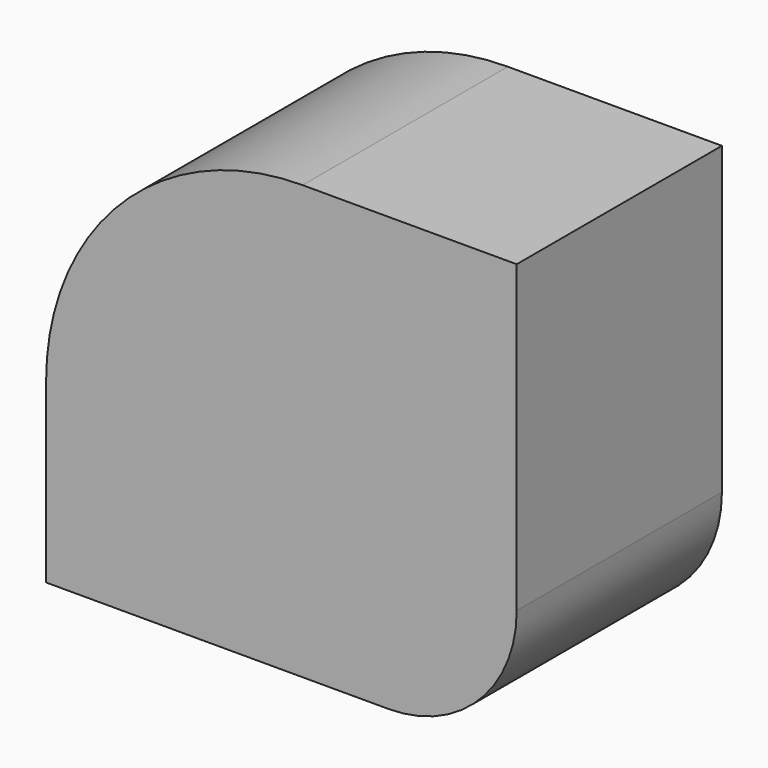
from build123d import *

# Parameters (mm, degrees)
F1_DEPTH = 101.6


with BuildPart() as f1:
    # F0 (on Front) → F1 (new body)
    with BuildSketch(Plane.XZ):
        with BuildLine():
            Line((68.37305, 132.235599), (-16.435547, 132.235599))
            ThreePointArc((-16.435547, 132.235599), (-88.277596, 102.477647), (-118.035547, 30.635599))
            Line((-118.035547, 30.635599), (-118.035547, -39.357398))
            Line((-118.035547, -39.357398), (17.57305, -39.357398))
            ThreePointArc((17.57305, -39.357398), (53.494074, -24.478422), (68.37305, 11.442602))
            Line((68.37305, 11.442602), (68.37305, 132.235599))
        make_face()
    extrude(amount=F1_DEPTH)


solid = f1.part
